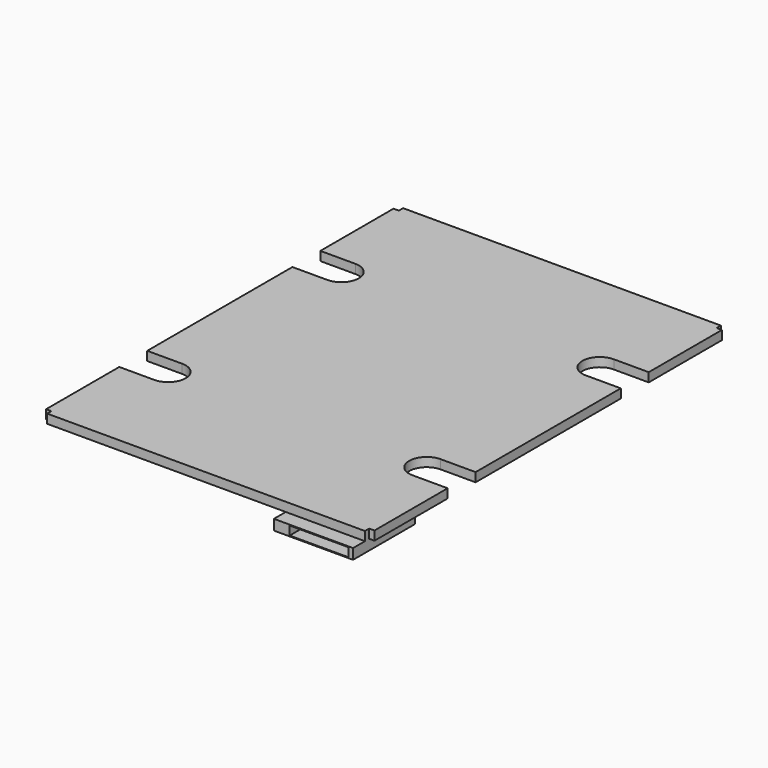
from build123d import *

# Parameters (mm, degrees)
PAD_DEPTH       = 1.7
SKETCH009_W     = 14.95
SKETCH009_H     = 14.67
PAD002_DEPTH    = 1.96
SKETCH017_W     = 11.09
SKETCH017_H     = 1.66
POCKET006_DEPTH = 14.6


with BuildPart() as part:
    # Sketch → Pad (new body)
    with BuildSketch(Plane.XY):
        with BuildLine():
            Line((0, 0), (30, 0))
            Line((30, 0), (30, 1))
            Line((30, 1), (31, 1))
            Line((31, 1), (31, 18.27))
            Line((31, 18.27), (24.4, 18.27))
            ThreePointArc((24.4, 24.87), (21.1, 21.57), (24.4, 18.27))
            Line((24.4, 24.87), (31, 24.87))
            Line((31, 24.87), (31, 59.13))
            Line((31, 59.13), (24.4, 59.13))
            ThreePointArc((24.4, 65.73), (21.1, 62.43), (24.4, 59.13))
            Line((24.4, 65.73), (31, 65.73))
            Line((31, 65.73), (31, 83))
            Line((30, 83), (31, 83))
            Line((30, 84), (30, 83))
            Line((30, 84), (0, 84))
            Line((0, 84), (-30, 84))
            Line((-30, 84), (-30, 83))
            Line((-30, 83), (-31, 83))
            Line((-31, 83), (-31, 65.73))
            Line((-31, 65.73), (-24.4, 65.73))
            ThreePointArc((-24.4, 59.13), (-21.1, 62.43), (-24.4, 65.73))
            Line((-24.4, 59.13), (-31, 59.13))
            Line((-31, 59.13), (-31, 24.87))
            Line((-31, 24.87), (-24.4, 24.87))
            ThreePointArc((-24.4, 18.27), (-21.1, 21.57), (-24.4, 24.87))
            Line((-24.4, 18.27), (-31, 18.27))
            Line((-31, 18.27), (-31, 1))
            Line((-31, 1), (-30, 1))
            Line((-30, 1), (-30, 0))
            Line((-30, 0), (0, 0))
        make_face()
    extrude(amount=PAD_DEPTH)

    # Sketch009 → Pad002 (new body)
    with BuildSketch(Plane(origin=(0, 0, 0), x_dir=(1, 0, 0), z_dir=(0, 0, -1))):
        with Locations((22.525, -4.535)):
            Rectangle(SKETCH009_W, SKETCH009_H)
    extrude(amount=PAD002_DEPTH)

    # Sketch017 → Pocket006 (cut)
    with BuildSketch(Plane.XZ.offset(2.8)):
        with Locations((23.575, -0.98)):
            Rectangle(SKETCH017_W, SKETCH017_H)
    extrude(amount=-POCKET006_DEPTH, mode=Mode.SUBTRACT)


solid = part.part
